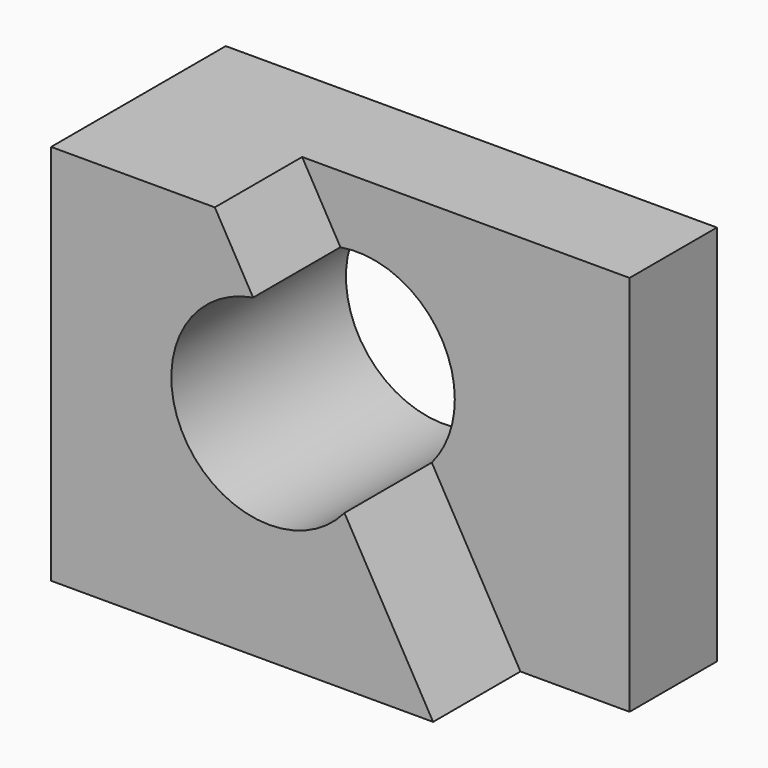
from build123d import *

# Parameters (mm, degrees)
F0_W     = 57.15
F0_H     = 44.45
F1_DEPTH = 25.4
F2_R     = 11.414104
F3_DEPTH = 25.4
F5_DEPTH = 12.7


with BuildPart() as f1:
    # F0 (on Front) → F1 (new body)
    with BuildSketch(Plane.XZ):
        with Locations((-24.923741, 8.748023)):
            Rectangle(F0_W, F0_H)
    extrude(amount=F1_DEPTH)

    # F2 (on face) → F3 (cut)
    with BuildSketch(Plane.XZ.offset(25.4)):
        with Locations((-28.098741, 11.923023)):
            Circle(F2_R)
    extrude(amount=-F3_DEPTH, mode=Mode.SUBTRACT)

    # F4 (on face) → F5 (cut)
    with BuildSketch(Plane.XZ.offset(25.4)):
        Polygon((3.651259, 30.973023), (-34.448741, 30.973023), (-9.048741, -13.476977), (3.651259, -13.476977), align=None)
    extrude(amount=-F5_DEPTH, mode=Mode.SUBTRACT)


solid = f1.part
